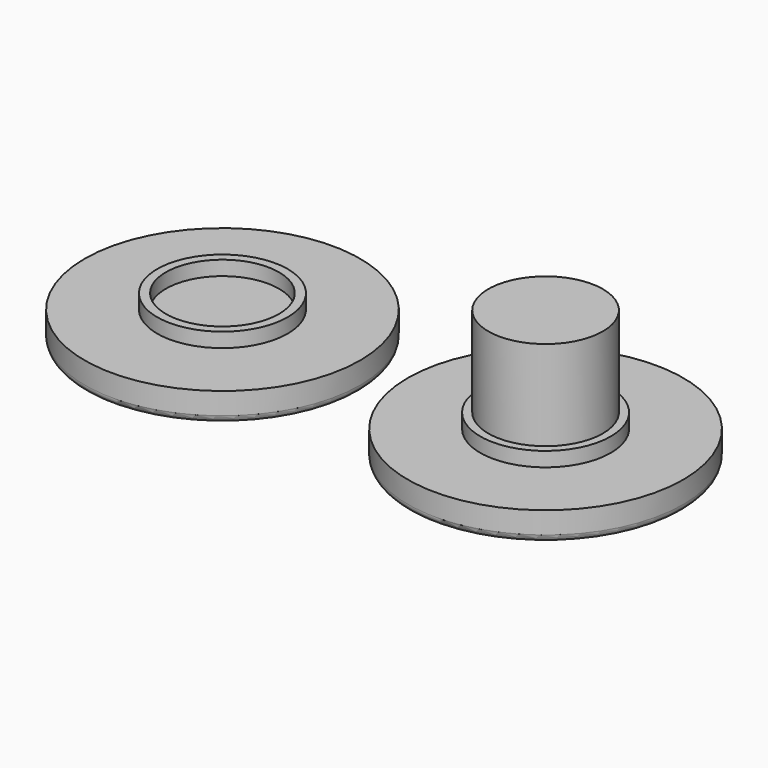
from build123d import *

# Parameters (mm, degrees)
F0_R      = 9.5
F1_DEPTH  = 2
F2_R      = 0.5
F3_R      = 4.5
F4_DEPTH  = 1
F5_R      = 3.95
F6_DEPTH  = 6.2
F7_R      = 9.5
F8_DEPTH  = 2
F9_R      = 0.5
F10_R     = 4.5
F11_DEPTH = 1
F12_R     = 3.9
F13_DEPTH = 1


with BuildPart() as f1:
    # F0 (on Top) → F1 (new body)
    with BuildSketch(Plane.XY):
        Circle(F0_R)
    extrude(amount=F1_DEPTH)

    # F2
    f2_edges = [f1.edges().sort_by_distance(p)[0] for p in [
        (-9.5, 0, 0),
    ]]
    fillet(f2_edges, radius=F2_R)

    # F3 (on face) → F4 (join)
    with BuildSketch(Plane.XY.offset(2)):
        Circle(F3_R)
    extrude(amount=F4_DEPTH)

    # F5 (on face) → F6 (join)
    with BuildSketch(Plane.XY.offset(3)):
        Circle(F5_R)
    extrude(amount=F6_DEPTH)


with BuildPart() as f8:
    # F7 (on Top) → F8 (new body)
    with BuildSketch(Plane.XY):
        with Locations((-41.0752855241, 31.5894894302)):
            Circle(F7_R)
    extrude(amount=F8_DEPTH)

    # F9
    f9_edges = [f8.edges().sort_by_distance(p)[0] for p in [
        (-50.575286, 31.589489, 0),
    ]]
    fillet(f9_edges, radius=F9_R)

    # F10 (on face) → F11 (join)
    with BuildSketch(Plane.XY.offset(2)):
        with Locations((-41.0752855241, 31.5894894302)):
            Circle(F10_R)
    extrude(amount=F11_DEPTH)

    # F12 (on face) → F13 (cut)
    with BuildSketch(Plane.XY.offset(3)):
        with Locations((-41.0752855241, 31.5894894302)):
            Circle(F12_R)
    extrude(amount=-F13_DEPTH, mode=Mode.SUBTRACT)


with BuildPart() as f8_1:
    # F14: moved
    add(f8.part.moved(Location((0, -31, 0))))


with BuildPart() as f8_2:
    # F15: moved
    add(f8_1.part.moved(Location((18.8, -0.6, 0))))


solid = Compound([f1.part, f8_2.part])
